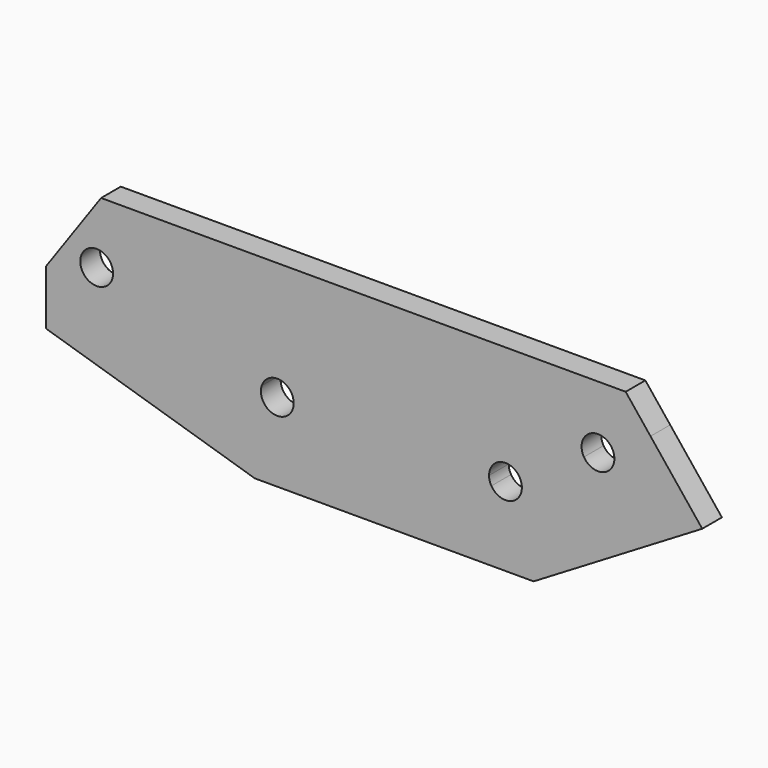
from build123d import *

# Parameters (mm, degrees)
F1_DEPTH = 4.7625


with BuildPart() as f1:
    # F0 (on Front) → F1 (new body)
    with BuildSketch(Plane.XZ):
        with BuildLine():
            Line((26.4038386983, 2.564510672), (44.8625854758, 23.0650258511))
            Line((44.8625854758, 23.0650258511), (-53.9749003947, 23.0650258511))
            Line((-53.9749003947, 23.0650258511), (-64.6206509769, 7.9856580123))
            Line((-64.6206509769, 7.9856580123), (-64.6206509769, -2.6557157676))
            Line((-64.6206509769, -2.6557157676), (-24.221339656, -15.0349741489))
            Line((-24.221339656, -15.0349741489), (-1.1206509769, -15.0349741489))
            Line((-1.1206509769, -15.0349741489), (-1.1206509769, -5.5099741489))
            Line((-1.1206509769, -5.5099741489), (-16.828311902, -0.6967932604))
            ThreePointArc((-16.828311902, -0.6967932604), (-20.8027443302, -2.8306539415), (-22.8994068913, 1.1635269053))
            ThreePointArc((-22.8994068913, 1.1635269053), (-19.3876033028, 3.3427731008), (-16.6975437083, 0.2050258511))
            Line((-16.6975437083, 0.2050258511), (-0.8225437083, 0.2050258511))
            Line((-0.8225437083, 0.2050258511), (21.1043490231, 0.2050258511))
            ThreePointArc((21.1043490231, 0.2050258511), (22.9879601813, 3.1055326791), (26.4038386983, 2.564510672))
        make_face()
        with BuildLine():
            ThreePointArc((-51.6566210989, 10.9482761359), (-51.6916443202, 10.4779881079), (-51.7959413063, 10.018075514))
            ThreePointArc((-51.7959413063, 10.018075514), (-57.9715978776, 11.4185641639), (-51.6566210989, 10.9482761359))
        make_face(mode=Mode.SUBTRACT)
        with BuildLine():
            ThreePointArc((21.556808984, -1.4284981724), (21.219554126, -0.6424882714), (21.1043490231, 0.2050258511))
            Line((21.1043490231, 0.2050258511), (-0.8225437083, 0.2050258511))
            Line((-0.8225437083, 0.2050258511), (-16.6975437083, 0.2050258511))
            ThreePointArc((-16.6975437083, 0.2050258511), (-16.7304058226, -0.2505995516), (-16.828311902, -0.6967932604))
            Line((-16.828311902, -0.6967932604), (-1.1206509769, -5.5099741489))
            Line((-1.1206509769, -5.5099741489), (9.3876935245, -8.7299674481))
            Line((9.3876935245, -8.7299674481), (21.556808984, -1.4284981724))
        make_face()
        with BuildLine():
            Line((52.3552192636, 17.0505479954), (47.5451759994, 23.0650258511))
            Line((47.5451759994, 23.0650258511), (44.8625854758, 23.0650258511))
            Line((44.8625854758, 23.0650258511), (26.4038386983, 2.564510672))
            ThreePointArc((26.4038386983, 2.564510672), (26.7298957035, 2.2237992329), (27.0018890622, 1.8385498746))
            Line((27.0018890622, 1.8385498746), (39.4622261253, 9.3147521124))
            ThreePointArc((39.4622261253, 9.3147521124), (40.551242141, 13.670816175), (44.9073062036, 12.5818001594))
            Line((44.9073062036, 12.5818001594), (52.3552192636, 17.0505479954))
        make_face()
        Polygon((-1.1206509769, -5.5099741489), (-1.1206509769, -15.0349741489), (9.3876935245, -8.7299674481), align=None)
        with BuildLine():
            Line((62.3602304878, 4.5402824637), (52.3552192636, 17.0505479954))
            Line((52.3552192636, 17.0505479954), (44.9073062036, 12.5818001594))
            ThreePointArc((44.9073062036, 12.5818001594), (45.2445610615, 11.7957902584), (45.3597661644, 10.9482761359))
            ThreePointArc((45.3597661644, 10.9482761359), (43.032280287, 7.8884812388), (39.4622261253, 9.3147521124))
            Line((39.4622261253, 9.3147521124), (27.0018890622, 1.8385498746))
            ThreePointArc((27.0018890622, 1.8385498746), (27.3391439202, 1.0525399736), (27.4543490231, 0.2050258511))
            ThreePointArc((27.4543490231, 0.2050258511), (25.1268631456, -2.854769046), (21.556808984, -1.4284981724))
            Line((21.556808984, -1.4284981724), (9.3876935245, -8.7299674481))
            Line((9.3876935245, -8.7299674481), (-1.1206509769, -15.0349741489))
            Line((-1.1206509769, -15.0349741489), (29.7348028, -15.0349741489))
            Line((29.7348028, -15.0349741489), (62.3602304878, 4.5402824637))
        make_face()
    extrude(amount=F1_DEPTH)


solid = f1.part
